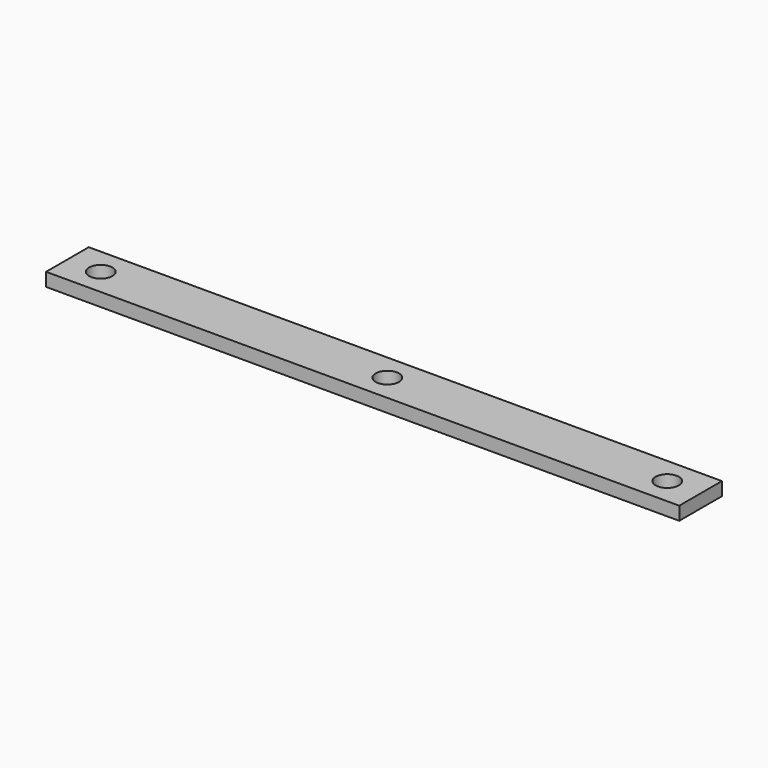
from build123d import *

# Parameters (mm, degrees)
SKETCH001_W  = 95
SKETCH001_H  = 8
PAD_DEPTH    = 2
SKETCH_R     = 1.75
POCKET_DEPTH = 8


with BuildPart() as part:
    # Sketch001 → Pad (new body)
    with BuildSketch(Plane.XY):
        with Locations((47.5, 4)):
            Rectangle(SKETCH001_W, SKETCH001_H)
    extrude(amount=PAD_DEPTH)

    # Sketch (on Face6 of Pad) → Pocket (cut)
    with BuildSketch(Plane.XY.offset(2)):
        with Locations((5, 4)):
            Circle(SKETCH_R)
        with Locations((48, 4)):
            Circle(SKETCH_R)
        with Locations((90, 4)):
            Circle(SKETCH_R)
    extrude(amount=-POCKET_DEPTH, mode=Mode.SUBTRACT)


solid = part.part
